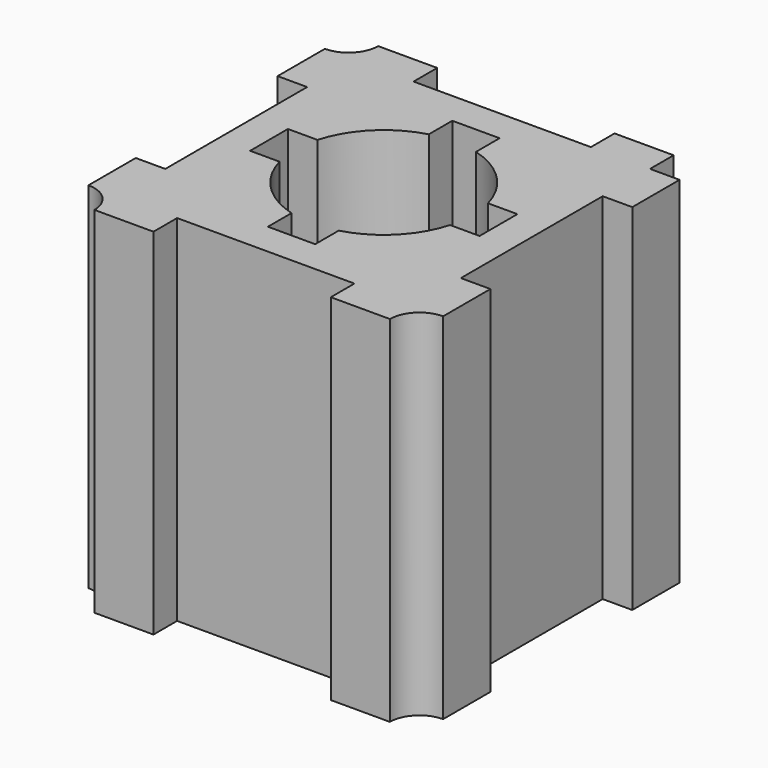
from build123d import *

# Parameters (mm, degrees)
F1_DEPTH = 1524


with BuildPart() as f1:
    # F0 (on Top) → F1 (new body)
    with BuildSketch(Plane.XY):
        with BuildLine():
            ThreePointArc((127, 127), (89.802561, 37.197439), (0, 0))
            Line((0, 0), (0, -254))
            Line((0, -254), (127, -254))
            Line((127, -254), (127, -635))
            Line((127, -635), (127, -1016))
            Line((127, -1016), (0, -1016))
            Line((0, -1016), (0, -1270))
            ThreePointArc((0, -1270), (89.802561, -1307.197439), (127, -1397))
            Line((127, -1397), (381, -1397))
            Line((381, -1397), (381, -1270))
            Line((381, -1270), (1143, -1270))
            Line((1143, -1270), (1143, -1397))
            Line((1143, -1397), (1397, -1397))
            ThreePointArc((1397, -1397), (1434.197439, -1307.197439), (1524, -1270))
            Line((1524, -1270), (1524, -1016))
            Line((1524, -1016), (1397, -1016))
            Line((1397, -1016), (1397, -635))
            Line((1397, -635), (1397, -254))
            Line((1397, -254), (1524, -254))
            Line((1524, -254), (1524, 0))
            Line((1524, 0), (1397, 0))
            Line((1397, 0), (1397, 127))
            Line((1397, 127), (1143, 127))
            Line((1143, 127), (1143, 0))
            Line((1143, 0), (381, 0))
            Line((381, 0), (381, 127))
            Line((381, 127), (127, 127))
        make_face()
        with BuildLine():
            Line((267.017298, -735.520426), (267.017298, -635))
            Line((267.017298, -635), (267.017298, -532.320426))
            Line((267.017298, -532.320426), (394.017298, -532.320426))
            ThreePointArc((394.017298, -532.320426), (492.305962, -364.801425), (660.4, -267.499464))
            Line((660.4, -267.499464), (660.4, -141.096872))
            Line((660.4, -141.096872), (762, -141.096872))
            Line((762, -141.096872), (863.6, -141.096872))
            Line((863.6, -141.096872), (863.6, -268.096872))
            ThreePointArc((863.6, -268.096872), (1031.119001, -366.385537), (1128.420962, -534.479574))
            Line((1128.420962, -534.479574), (1254.823553, -534.479574))
            Line((1254.823553, -534.479574), (1254.823553, -737.679574))
            Line((1254.823553, -737.679574), (1127.823553, -737.679574))
            ThreePointArc((1127.823553, -737.679574), (1029.534889, -905.198575), (861.440851, -1002.500536))
            Line((861.440851, -1002.500536), (861.440851, -1128.903128))
            Line((861.440851, -1128.903128), (658.240851, -1128.903128))
            Line((658.240851, -1128.903128), (658.240851, -1001.903128))
            ThreePointArc((658.240851, -1001.903128), (490.72185, -903.614463), (393.41989, -735.520426))
            Line((393.41989, -735.520426), (267.017298, -735.520426))
        make_face(mode=Mode.SUBTRACT)
    extrude(amount=F1_DEPTH)


solid = f1.part
